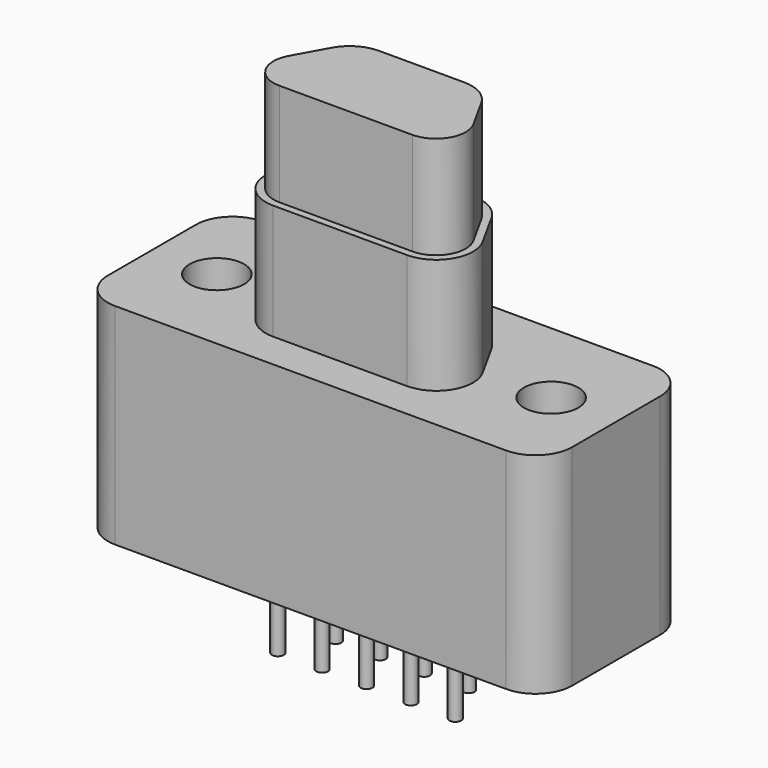
from build123d import *

# Parameters (mm, degrees)
F0_R     = 1.1684
F1_DEPTH = 4.5085
F3_DEPTH = 4.953
F5_DEPTH = 4.4069
F6_R     = 0.254
F7_DEPTH = 3.81


with BuildPart() as f1:
    # F0 (on Top) → F1 (new body, symmetric)
    with BuildSketch(Plane.XY):
        with BuildLine():
            Line((8.3947, 3.937), (-8.3947, 3.937))
            ThreePointArc((-8.3947, 3.937), (-9.508252, 3.475752), (-9.9695, 2.3622))
            Line((-9.9695, 2.3622), (-9.9695, -2.3622))
            ThreePointArc((-9.9695, -2.3622), (-9.508252, -3.475752), (-8.3947, -3.937))
            Line((-8.3947, -3.937), (8.3947, -3.937))
            ThreePointArc((8.3947, -3.937), (9.508252, -3.475752), (9.9695, -2.3622))
            Line((9.9695, -2.3622), (9.9695, 2.3622))
            ThreePointArc((9.9695, 2.3622), (9.508252, 3.475752), (8.3947, 3.937))
        make_face()
        with Locations((-7.1755, 0)):
            Circle(F0_R, mode=Mode.SUBTRACT)
        with Locations((7.1755, 0)):
            Circle(F0_R, mode=Mode.SUBTRACT)
    extrude(amount=F1_DEPTH, both=True)

    # F2 (on face) → F3 (join)
    with BuildSketch(Plane.XY.offset(4.5085)):
        with BuildLine():
            Line((-2.87642, -2.3622), (2.877878, -2.3622))
            ThreePointArc((2.877878, -2.3622), (4.234771, -1.586671), (4.255229, -0.023922))
            Line((4.255229, -0.023922), (3.396382, 1.525478))
            ThreePointArc((3.396382, 1.525478), (2.818303, 2.118894), (2.019031, 2.3368))
            Line((2.019031, 2.3368), (-2.017574, 2.3368))
            ThreePointArc((-2.017574, 2.3368), (-2.816845, 2.118894), (-3.394925, 1.525478))
            Line((-3.394925, 1.525478), (-4.253771, -0.023922))
            ThreePointArc((-4.253771, -0.023922), (-4.233314, -1.586671), (-2.87642, -2.3622))
        make_face()
    extrude(amount=F3_DEPTH)

    # F4 (on face) → F5 (join)
    with BuildSketch(Plane.XY.offset(9.4615)):
        with BuildLine():
            Line((1.832009, 2.0193), (-1.830552, 2.0193))
            ThreePointArc((-1.830552, 2.0193), (-2.629823, 1.801394), (-3.207903, 1.207978))
            Line((-3.207903, 1.207978), (-3.965627, -0.158992))
            ThreePointArc((-3.965627, -0.158992), (-3.949129, -1.419274), (-2.85486, -2.0447))
            Line((-2.85486, -2.0447), (2.856317, -2.0447))
            ThreePointArc((2.856317, -2.0447), (3.950586, -1.419274), (3.967084, -0.158992))
            Line((3.967084, -0.158992), (3.209361, 1.207978))
            ThreePointArc((3.209361, 1.207978), (2.631281, 1.801394), (1.832009, 2.0193))
        make_face()
    extrude(amount=F5_DEPTH)

    # F6 (on face) → F7 (join)
    with BuildSketch(Plane(origin=(0, 0, -4.5085), x_dir=(1, 0, 0), z_dir=(0, 0, -1))):
        with Locations((-3.7973, 0.9525)):
            Circle(F6_R)
        with Locations((-1.8923, 0.9525)):
            Circle(F6_R)
        with Locations((0.0127, 0.9525)):
            Circle(F6_R)
        with Locations((1.9177, 0.9525)):
            Circle(F6_R)
        with Locations((3.8227, 0.9525)):
            Circle(F6_R)
        with Locations((-2.8448, -0.9525)):
            Circle(F6_R)
        with Locations((-0.9398, -0.9525)):
            Circle(F6_R)
        with Locations((0.9652, -0.9525)):
            Circle(F6_R)
        with Locations((2.8702, -0.9525)):
            Circle(F6_R)
    extrude(amount=F7_DEPTH)


solid = f1.part
